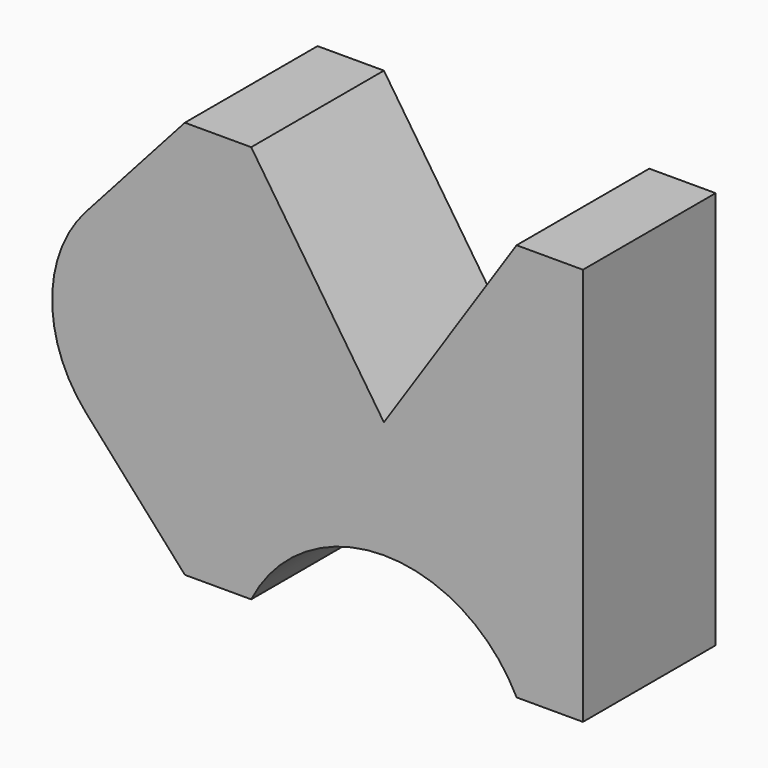
from build123d import *

# Parameters (mm, degrees)
F1_DEPTH = 25


with BuildPart() as f1:
    # F0 (on Front) → F1 (new body)
    with BuildSketch(Plane.XZ):
        with BuildLine():
            Line((20, 30), (0, 0))
            Line((0, 0), (-20, 30))
            Line((-20, 30), (-30, 30))
            Line((-30, 30), (-44.90712, 13.333333))
            ThreePointArc((-44.90712, 13.333333), (-50, 0), (-44.90712, -13.333333))
            Line((-44.90712, -13.333333), (-30, -30))
            Line((-30, -30), (-20, -30))
            ThreePointArc((-20, -30), (0, -17.63932), (20, -30))
            Line((20, -30), (30, -30))
            Line((30, -30), (30, 30))
            Line((30, 30), (20, 30))
        make_face()
    extrude(amount=-F1_DEPTH)


solid = f1.part
